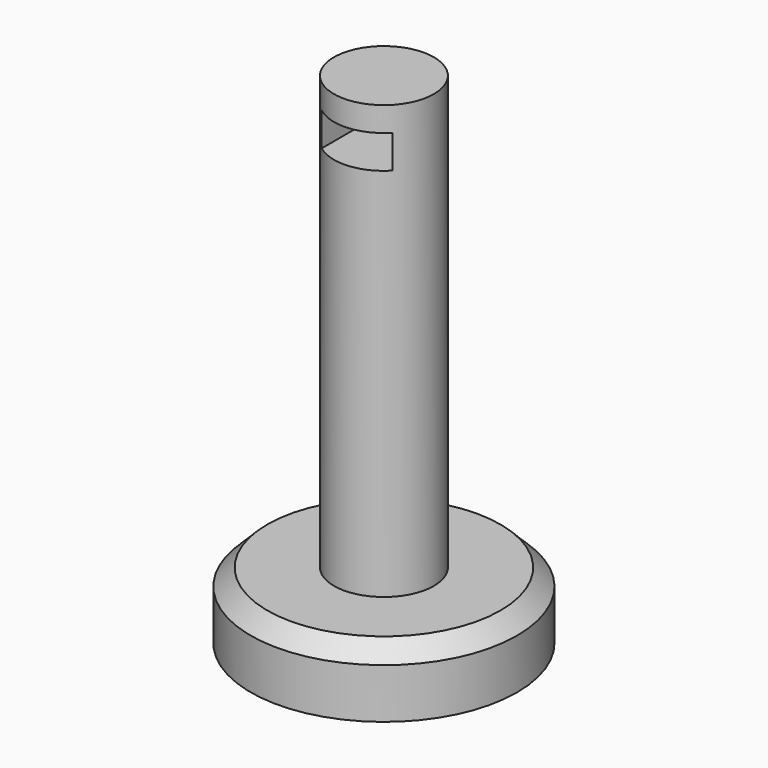
from build123d import *

# Parameters (mm, degrees)
F0_R     = 4
F0_R_2   = 1.5
F1_DEPTH = 2
F2_DEPTH = 15
F3_SIZE  = 0.5
F4_W     = 2
F4_H     = 1
F5_DEPTH = 4.001
F6_DEPTH = 25.4


with BuildPart() as f1:
    # F0 (on Top) → F1 (new body)
    with BuildSketch(Plane.XY):
        Circle(F0_R)
        Circle(F0_R_2, mode=Mode.SUBTRACT)
    extrude(amount=F1_DEPTH)

    # F0 (on Top) → F2 (join)
    with BuildSketch(Plane.XY):
        Circle(F0_R_2)
    extrude(amount=F2_DEPTH)

    # F3
    f3_edges = [f1.edges().sort_by_distance(p)[0] for p in [
        (-4, 0, 2),
    ]]
    chamfer(f3_edges, length=F3_SIZE)

    # F4 (on Front) → F5 (cut, through all)
    with BuildSketch(Plane.XZ):
        with Locations((0.083052, 13.76275)):
            Rectangle(F4_W, F4_H)
    extrude(amount=-F5_DEPTH, mode=Mode.SUBTRACT)

    # F4 (on Front) → F6 (cut)
    with BuildSketch(Plane.XZ):
        with Locations((0.083052, 13.76275)):
            Rectangle(F4_W, F4_H)
    extrude(amount=F6_DEPTH, mode=Mode.SUBTRACT)


solid = f1.part
